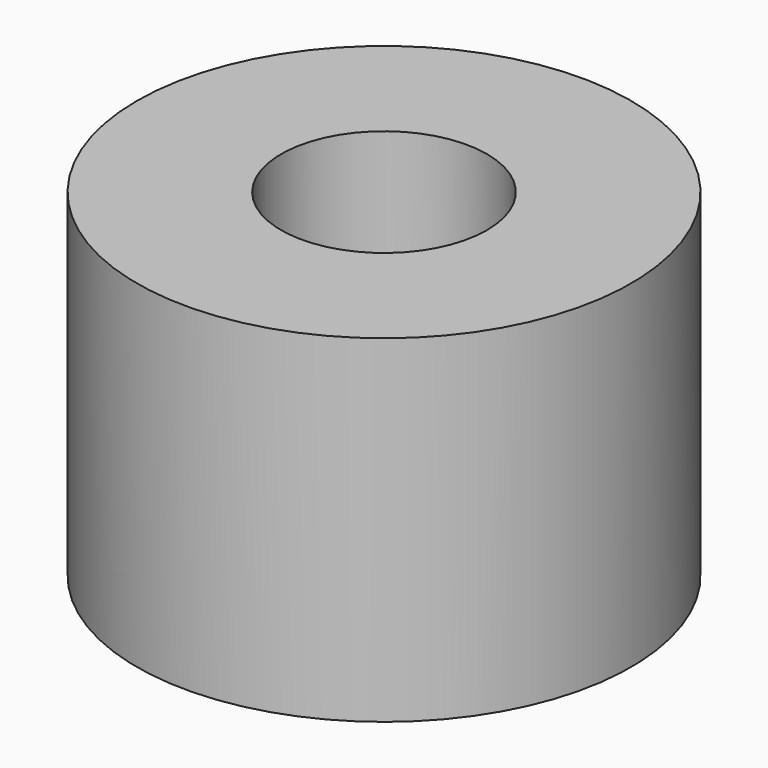
from build123d import *

# Parameters (mm, degrees)
CYLINDER082_R          = 1.25
CYLINDER082_DEPTH      = 5
CYLINDER083_R          = 3
CYLINDER083_DEPTH      = 4.1
CUT042_PLACEMENT_ANGLE = 90


with BuildPart() as b_w019:
    # Cylinder082 → Cylinder082 (new body)
    with BuildSketch(Plane(origin=(2, 6, 26), x_dir=(0, 0, 1), z_dir=(-1, 0, 0))):
        Circle(CYLINDER082_R)
    extrude(amount=CYLINDER082_DEPTH)


with BuildPart() as h_so:
    # Cylinder083 → Cylinder083 (new body)
    with BuildSketch(Plane(origin=(-1, 6, 26), x_dir=(0, 0, -1), z_dir=(1, 0, 0))):
        Circle(CYLINDER083_R)
    extrude(amount=CYLINDER083_DEPTH)

    # Cut042: cut B_W019
    add(b_w019.part, mode=Mode.SUBTRACT)


with BuildPart() as h_so_1:
    # Cut042 placement: moved
    add(h_so.part.moved(Location((46, 1.5, 3))).rotate(Axis((46, 1.5, 3), (0, 1, 0)), CUT042_PLACEMENT_ANGLE))


solid = h_so_1.part
